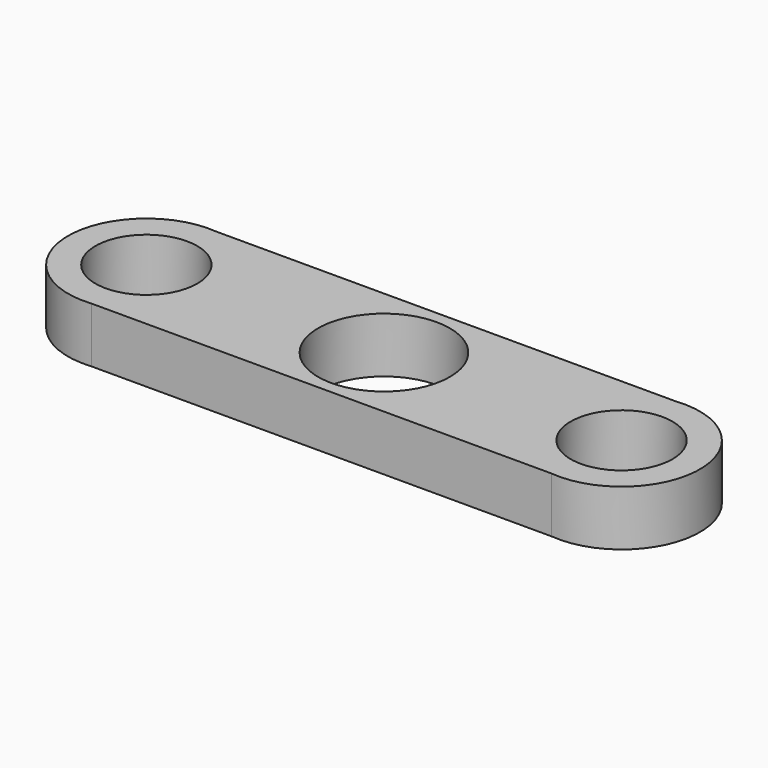
from build123d import *

# Parameters (mm, degrees)
F0_R     = 11.687263
F0_R_2   = 15.127238
F1_DEPTH = 12.7


with BuildPart() as f1:
    # F0 (on Top) → F1 (new body)
    with BuildSketch(Plane.XY):
        with BuildLine():
            Line((52.713767, 17.888913), (54.524425, 17.888913))
            ThreePointArc((54.524425, 17.888913), (72.413338, 0), (54.524425, -17.888913))
            Line((54.524425, -17.888913), (52.713767, -17.888913))
            ThreePointArc((52.713767, -17.888913), (72.504739, 0), (52.713767, 17.888913))
        make_face()
        with BuildLine():
            Line((-54.524425, 17.888913), (-52.831878, 17.888913))
            ThreePointArc((-52.831878, 17.888913), (-72.49323, 0), (-52.831878, -17.888913))
            Line((-52.831878, -17.888913), (-54.524425, -17.888913))
            ThreePointArc((-54.524425, -17.888913), (-72.413338, 0), (-54.524425, 17.888913))
        make_face()
        with BuildLine():
            ThreePointArc((54.524425, -17.888913), (72.413338, 0), (54.524425, 17.888913))
            Line((54.524425, 17.888913), (52.713767, 17.888913))
            Line((52.713767, 17.888913), (-52.831878, 17.888913))
            Line((-52.831878, 17.888913), (-54.524425, 17.888913))
            ThreePointArc((-54.524425, 17.888913), (-72.413338, 0), (-54.524425, -17.888913))
            Line((-54.524425, -17.888913), (-52.831878, -17.888913))
            Line((-52.831878, -17.888913), (52.713767, -17.888913))
            Line((52.713767, -17.888913), (54.524425, -17.888913))
        make_face()
        with Locations((-54.524425, 0)):
            Circle(F0_R, mode=Mode.SUBTRACT)
        Circle(F0_R_2, mode=Mode.SUBTRACT)
        with Locations((54.524425, 0)):
            Circle(F0_R, mode=Mode.SUBTRACT)
    extrude(amount=F1_DEPTH)


solid = f1.part
